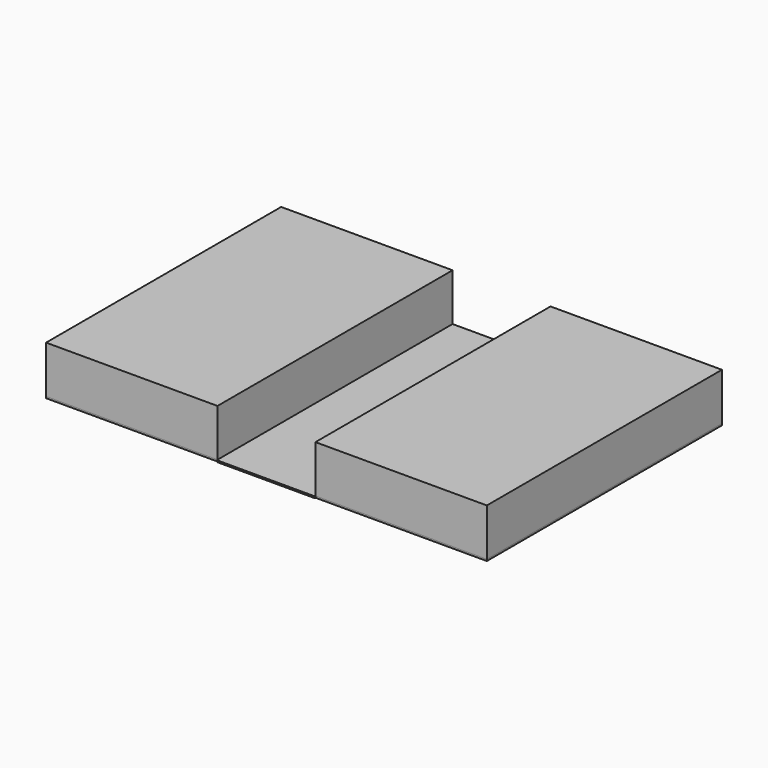
from build123d import *

# Parameters (mm, degrees)
F0_W     = 266.7
F0_H     = 303.238831
F0_H_2   = 457.2
F0_H_3   = 153.961169
F1_DEPTH = 76.2
F0_W_2   = 152.4
F0_H_4   = 1.416183
F2_DEPTH = 2.54


with BuildPart() as f1:
    # F0 (on Top) → F1 (new body)
    with BuildSketch(Plane.XY):
        with Locations((-179.317213, -40.909293)):
            Rectangle(F0_W, F0_H)
        with Locations((239.782787, 36.071291)):
            Rectangle(F0_W, F0_H_2)
        with Locations((-179.317213, 187.690707)):
            Rectangle(F0_W, F0_H_3)
    extrude(amount=F1_DEPTH)


with BuildPart() as f2:
    # F0 (on Top) → F2 (new body)
    with BuildSketch(Plane.XY):
        with Locations((-179.317213, 187.690707)):
            Rectangle(F0_W, F0_H_3)
        Polygon((106.432787, 264.671291), (-45.967213, 264.671291), (-45.967213, 110.710122), (-45.967213, -192.528709), (106.432787, -192.528709), align=None)
        with Locations((-179.317213, -40.909293)):
            Rectangle(F0_W, F0_H)
        with Locations((239.782787, 36.071291)):
            Rectangle(F0_W, F0_H_2)
        with Locations((30.232787, -193.2368)):
            Rectangle(F0_W_2, F0_H_4)
    extrude(amount=F2_DEPTH)


solid = Compound([f1.part, f2.part])
